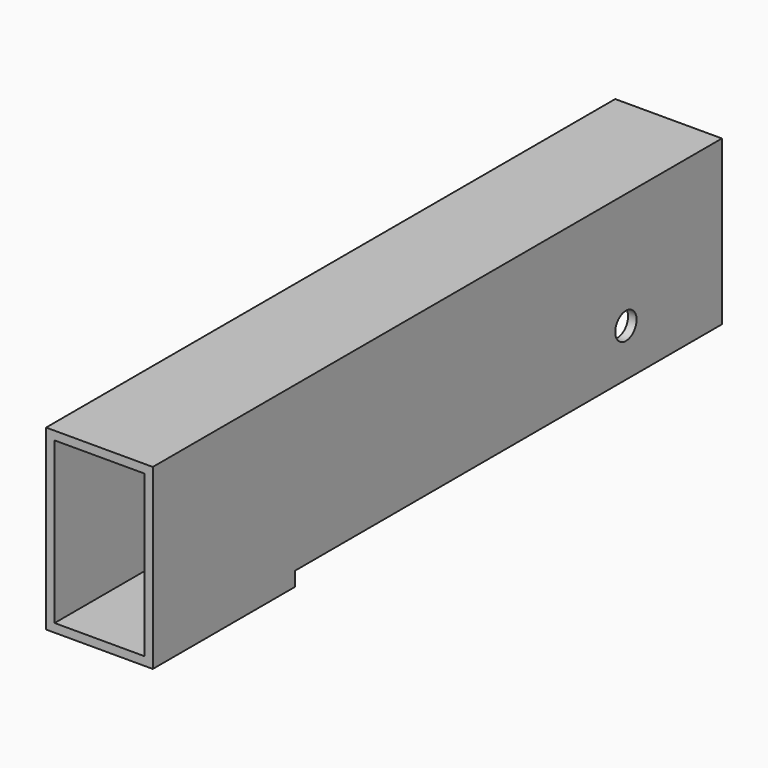
from build123d import *

# Parameters (mm, degrees)
F0_W     = 38.1
F0_H     = 63.5
F0_W_2   = 32.004
F0_H_2   = 57.404
F1_DEPTH = 254
F2_W     = 190.5
F2_H     = 5.08
F2_R     = 4.7625
F3_DEPTH = 50.8


with BuildPart() as f1:
    # F0 (on Front) → F1 (new body)
    with BuildSketch(Plane.XZ):
        Rectangle(F0_W, F0_H)
        Rectangle(F0_W_2, F0_H_2, mode=Mode.SUBTRACT)
    extrude(amount=F1_DEPTH)

    # F2 (on face) → F3 (cut)
    with BuildSketch(Plane.YZ.offset(19.05)):
        with Locations((-95.25, -29.21)):
            Rectangle(F2_W, F2_H)
        with Locations((-42.8498, -9.7282)):
            Circle(F2_R)
    extrude(amount=-F3_DEPTH, mode=Mode.SUBTRACT)


solid = f1.part
